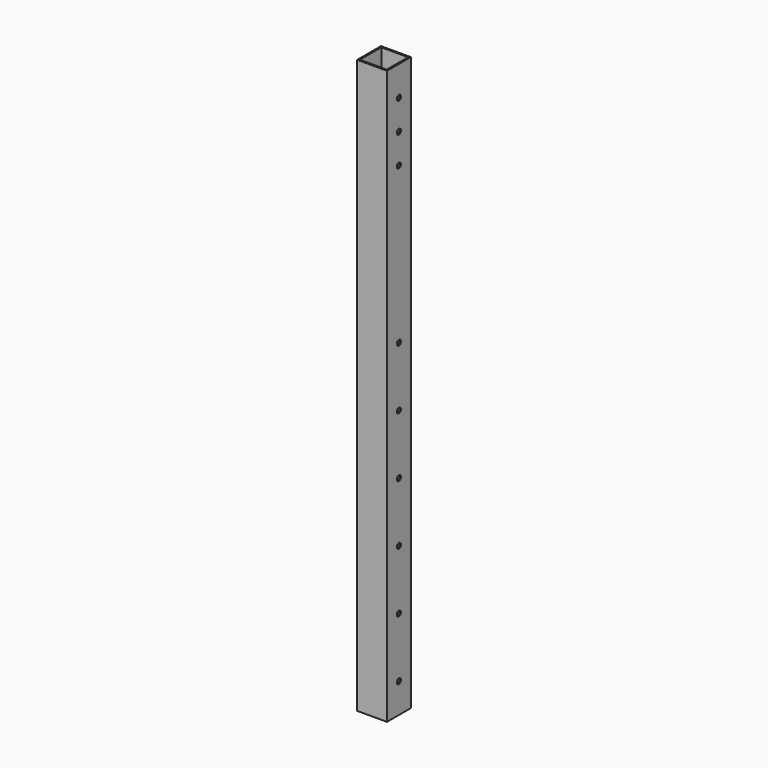
from build123d import *

# Parameters (mm, degrees)
F0_W     = 50
F0_H     = 50
F0_W_2   = 45
F0_H_2   = 45
F1_DEPTH = 962
F3_D     = 8.8


with BuildPart() as f1:
    # F0 (on Top) → F1 (new body)
    with BuildSketch(Plane.XY):
        Rectangle(F0_W, F0_H)
        Rectangle(F0_W_2, F0_H_2, mode=Mode.SUBTRACT)
    extrude(amount=F1_DEPTH)

    # F3 (through all)
    with Locations(Plane(origin=(-25, 0, 0), x_dir=(0, -1, 0), z_dir=(-1, 0, 0))):
        with Locations((0, 350), (0, 450), (0, 550), (0, 250), (0, 150), (0, 50), (0, 812), (0, 912), (0, 862)):
            Hole(F3_D / 2)


solid = f1.part
